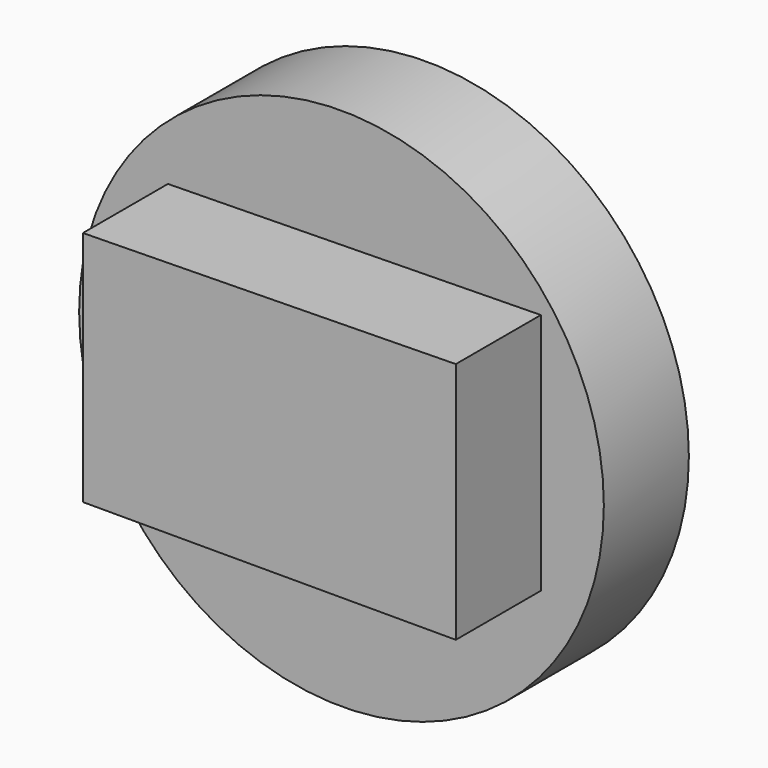
from build123d import *

# Parameters (mm, degrees)
F1_DEPTH = 0.0254
F3_R     = 62.6980879208
F4_DEPTH = 25.4
F6_DEPTH = 25.4


with BuildPart() as f1:
    # F0 (on Front) → F1 (new body)
    with BuildSketch(Plane.XZ):
        Polygon((47.9219257832, 17.5153240561), (-52.4058490992, 55.9089146554), (-52.4058490992, -55.068179965), align=None)
    extrude(amount=F1_DEPTH)


with BuildPart() as f4:
    # F3 (on Front) → F4 (new body)
    with BuildSketch(Plane.XZ):
        Circle(F3_R)
    extrude(amount=F4_DEPTH)

    # F5 (on face) → F6 (join)
    with BuildSketch(Plane.XZ.offset(25.4)):
        Polygon((47.6416796446, 35.1707711816), (-41.4762869477, 33.769544214), (-41.4762869477, -22.8399839252), (47.6416796446, -22.8399839252), align=None)
    extrude(amount=F6_DEPTH)


solid = f4.part
